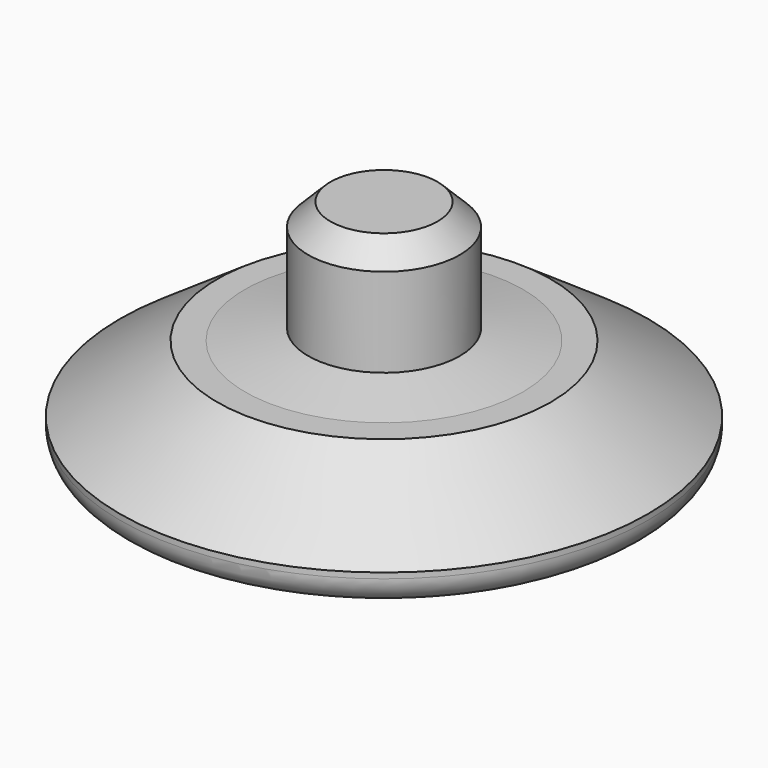
from build123d import *

# Parameters (mm, degrees)
F2_SIZE = 2.54
F3_R    = 3.175


with BuildPart() as f1:
    # F0 (on Front) → F1 (revolve)
    with BuildSketch(Plane.XZ):
        Polygon((8.6614, 13.000173), (0, 13.000173), (0, -12.399827), (30.1625, -12.399827), (30.1625, -8.589827), (19.05, -0.971779), (15.875, -0.971779), (8.6614, 0.300173), align=None)
    revolve(axis=Axis((0, 0, 1.824711), (0, 0, -1)))

    # F2
    f2_edges = [f1.edges().sort_by_distance(p)[0] for p in [
        (-8.6614, 0, 13.000173),
    ]]
    chamfer(f2_edges, length=F2_SIZE)

    # F3
    f3_edges = [f1.edges().sort_by_distance(p)[0] for p in [
        (-30.1625, 0, -12.399827),
    ]]
    fillet(f3_edges, radius=F3_R)


solid = f1.part
